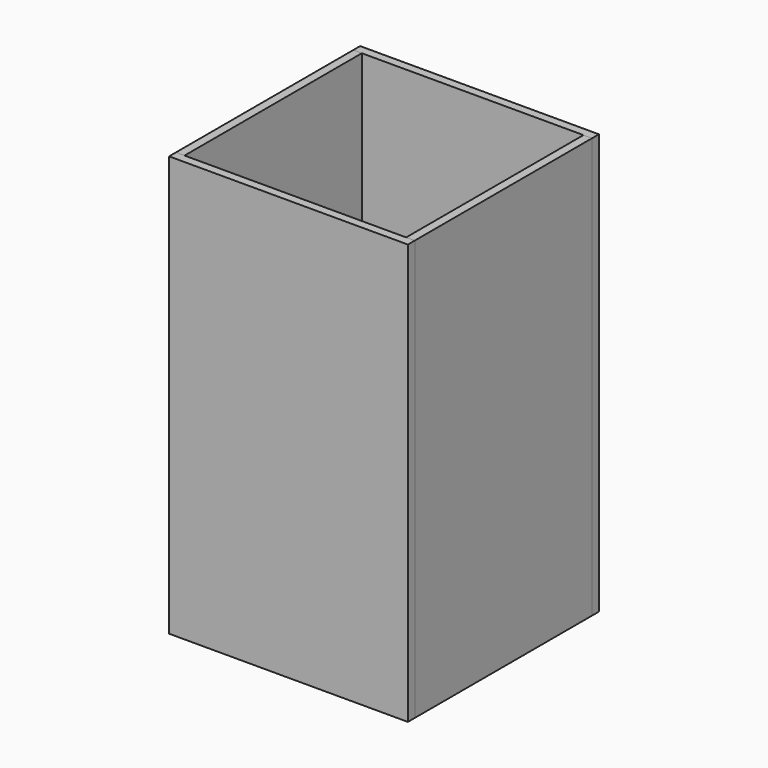
from build123d import *

# Parameters (mm, degrees)
F1_DEPTH = 880
F0_W     = 18
F0_H     = 464
F2_DEPTH = 880


with BuildPart() as f1:
    # F0 (on Top) → F1 (new body)
    with BuildSketch(Plane.XY):
        Polygon((-262.186378, 437.99419), (-762.186378, 437.99419), (-762.186378, 419.99419), (-744.186378, 419.99419), (-280.186378, 419.99419), (-262.186378, 419.99419), align=None)
        Polygon((-744.186378, -44.00581), (-762.186378, -44.00581), (-762.186378, -62.00581), (-262.186378, -62.00581), (-262.186378, -44.00581), (-280.186378, -44.00581), align=None)
    extrude(amount=F1_DEPTH)


with BuildPart() as f2:
    # F0 (on Top) → F2 (new body)
    with BuildSketch(Plane.XY):
        with Locations((-753.186378, 187.99419)):
            Rectangle(F0_W, F0_H)
        with Locations((-271.186378, 187.99419)):
            Rectangle(F0_W, F0_H)
    extrude(amount=F2_DEPTH)


solid = Compound([f1.part, f2.part])
